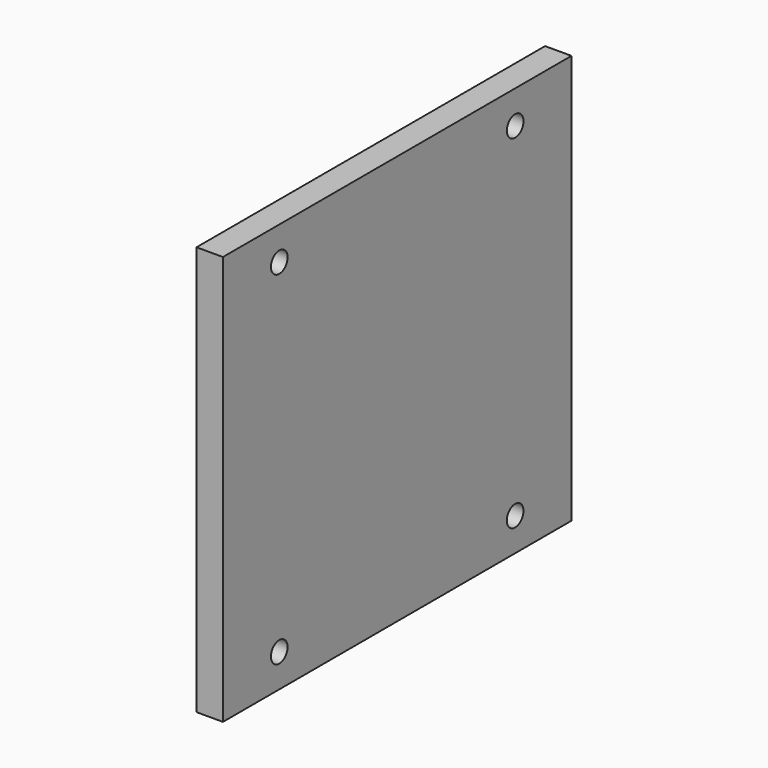
from build123d import *

# Parameters (mm, degrees)
F0_W     = 314.325
F0_H     = 295.275
F1_DEPTH = 19.05
F3_D     = 15.0114
F3_DEPTH = 14.224
F3_TIP   = 4.5098795482


with BuildPart() as f1:
    # F0 (on Right) → F1 (new body)
    with BuildSketch(Plane.YZ):
        Rectangle(F0_W, F0_H)
    extrude(amount=F1_DEPTH)

    # F3
    with Locations(Plane.YZ.offset(19.05)):
        with Locations((-106.3625, 123.7615), (106.3625, 123.7615), (-106.3625, -123.7615), (106.3625, -123.7615)):
            Hole(F3_D / 2, depth=F3_DEPTH)
            with Locations((0, 0, -(F3_DEPTH + F3_TIP / 2))):  # 118° drill point
                Cone(0, F3_D / 2, F3_TIP, mode=Mode.SUBTRACT)


solid = f1.part
